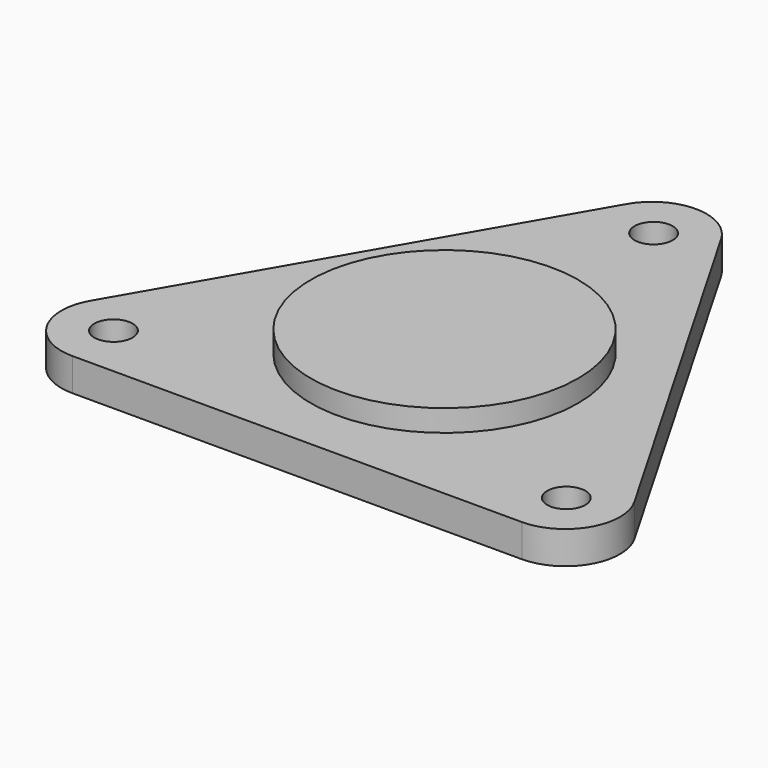
from build123d import *

# Parameters (mm, degrees)
F0_R     = 1.75
F1_DEPTH = 3
F2_R     = 12.25
F3_DEPTH = 2


with BuildPart() as f1:
    # F0 (on Top) → F1 (new body)
    with BuildSketch(Plane.XY):
        with BuildLine():
            Line((24.927017, -9.39162), (4.330127, 26.283241))
            ThreePointArc((4.330127, 26.283241), (0, 28.783241), (-4.330127, 26.283241))
            Line((-4.330127, 26.283241), (-24.927017, -9.39162))
            ThreePointArc((-24.927017, -9.39162), (-24.927017, -14.39162), (-20.59689, -16.89162))
            Line((-20.59689, -16.89162), (20.59689, -16.89162))
            ThreePointArc((20.59689, -16.89162), (24.927017, -14.39162), (24.927017, -9.39162))
        make_face()
        with Locations((-20.75, -11.980018)):
            Circle(F0_R, mode=Mode.SUBTRACT)
        with Locations((20.75, -11.980018)):
            Circle(F0_R, mode=Mode.SUBTRACT)
        with Locations((0, 23.960036)):
            Circle(F0_R, mode=Mode.SUBTRACT)
    extrude(amount=F1_DEPTH)

    # F2 (on face) → F3 (join)
    with BuildSketch(Plane.XY.offset(3)):
        Circle(F2_R)
    extrude(amount=F3_DEPTH)


solid = f1.part
